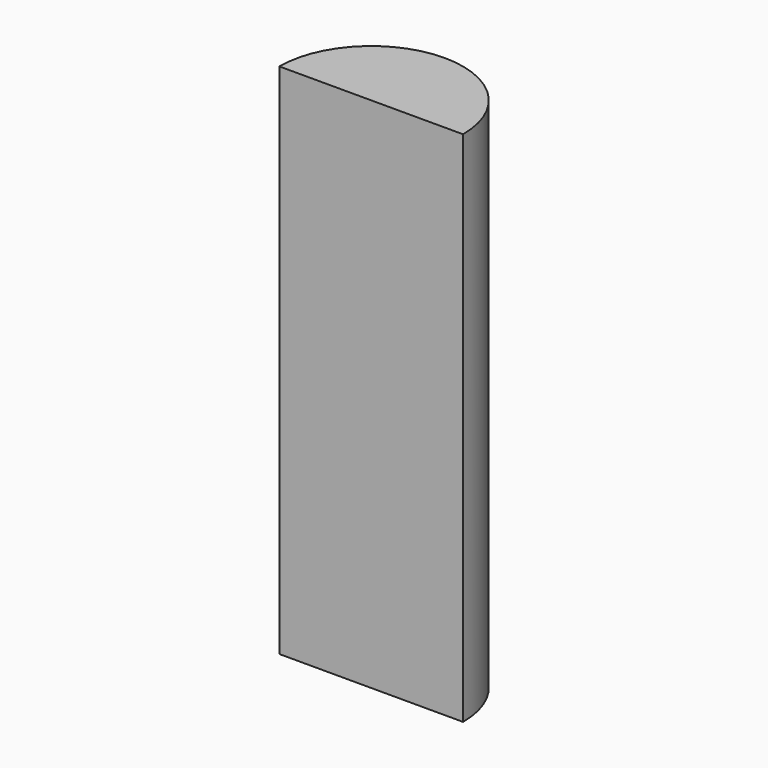
from build123d import *

# Parameters (mm, degrees)
CYLINDER_W     = 19
CYLINDER_H     = 107
CYLINDER_ANGLE = 180


with BuildPart() as part:
    # Cylinder → Cylinder (revolve)
    with BuildSketch(Plane.XZ):
        with Locations((9.5, 53.5)):
            Rectangle(CYLINDER_W, CYLINDER_H)
    revolve(axis=Axis((0, 0, 0), (0, 0, 1)), revolution_arc=CYLINDER_ANGLE)


solid = part.part
